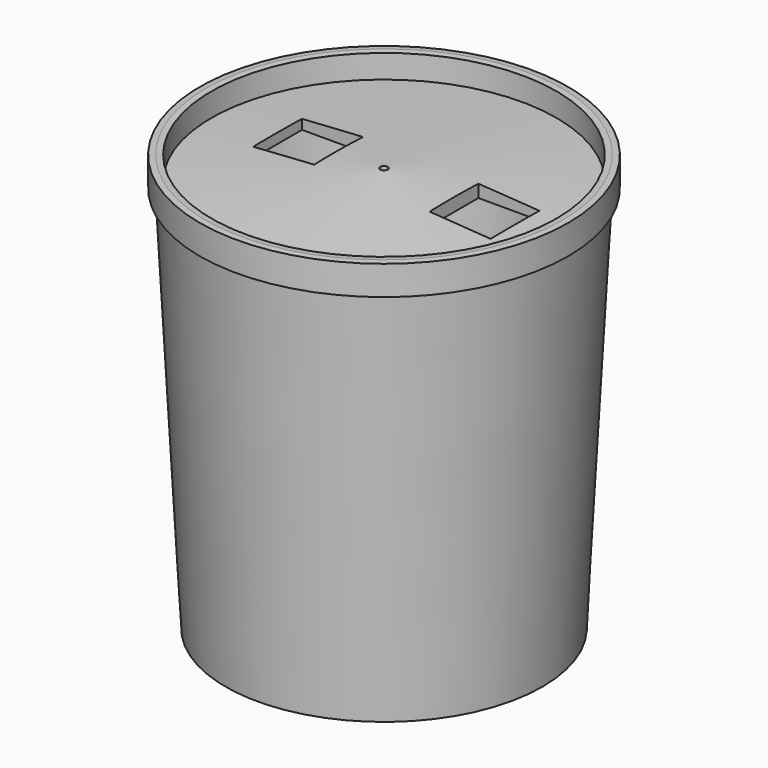
from build123d import *

# Parameters (mm, degrees)
F0_R         = 135
F1_DEPTH     = 330.2
F1_TAPER     = -3
F2_R         = 134.8030624247
F3_DEPTH     = 292.1
F3_TAPER     = 3
F4_R         = 156.9952990324
F5_DEPTH     = 25
F6_R         = 146.995306015
F6_W         = 52
F6_H         = 52
F6_R_2       = 3.1
F7_DEPTH     = 20
F7_FACE_R    = 146.995306015
F7_FACE1_R   = 156.9952990324
F7_FACE1_R_2 = 146.995306015
F8_DEPTH     = 10
F8_TAPER     = 86
F9_DEPTH     = 254


with BuildPart() as f1:
    # F0 (on Top) → F1 (new body)
    with BuildSketch(Plane.XY):
        Circle(F0_R)
    extrude(amount=F1_DEPTH, taper=F1_TAPER)

    # F2 (on face) → F3 (cut)
    with BuildSketch(Plane.XY.offset(330.2)):
        Circle(F2_R)
    extrude(amount=-F3_DEPTH, taper=F3_TAPER, mode=Mode.SUBTRACT)

    # F4 (on face) → F5 (join)
    with BuildSketch(Plane.XY.offset(330.2)):
        Circle(F4_R)
    extrude(amount=F5_DEPTH)

    # F6 (on face) → F7 (cut)
    with BuildSketch(Plane.XY.offset(355.2)):
        Circle(F6_R)
        with Locations((-69.1615422964, 5.5897118747)):
            Rectangle(F6_W, F6_H, mode=Mode.SUBTRACT)
        Circle(F6_R_2, mode=Mode.SUBTRACT)
        with Locations((83.9149872065, 2.1923439801)):
            Rectangle(F6_W, F6_H, mode=Mode.SUBTRACT)
        with Locations((83.9149872065, 2.1923439801)):
            Rectangle(F6_W, F6_H)
        with Locations((-69.1615422964, 5.5897118747)):
            Rectangle(F6_W, F6_H)
        Circle(F6_R_2)
    extrude(amount=-F7_DEPTH, mode=Mode.SUBTRACT)

    # F7_face (on face) + F7_face1 (on face) → F8 (join)
    with BuildSketch(Plane.XY.offset(335.2)):
        Circle(F7_FACE_R)
    with BuildSketch(Plane.XY.offset(355.2)):
        Circle(F7_FACE1_R)
        Circle(F7_FACE1_R_2, mode=Mode.SUBTRACT)
        Circle(F7_FACE1_R)
        Circle(F7_FACE1_R_2, mode=Mode.SUBTRACT)
        Circle(F7_FACE1_R)
        Circle(F7_FACE1_R_2, mode=Mode.SUBTRACT)
    extrude(amount=F8_DEPTH, taper=F8_TAPER)

    # F6 (on face) → F9 (cut)
    with BuildSketch(Plane.XY.offset(355.2)):
        with Locations((83.9149872065, 2.1923439801)):
            Rectangle(F6_W, F6_H)
        with Locations((-69.1615422964, 5.5897118747)):
            Rectangle(F6_W, F6_H)
        Circle(F6_R_2)
    extrude(amount=-F9_DEPTH, mode=Mode.SUBTRACT)


solid = f1.part
